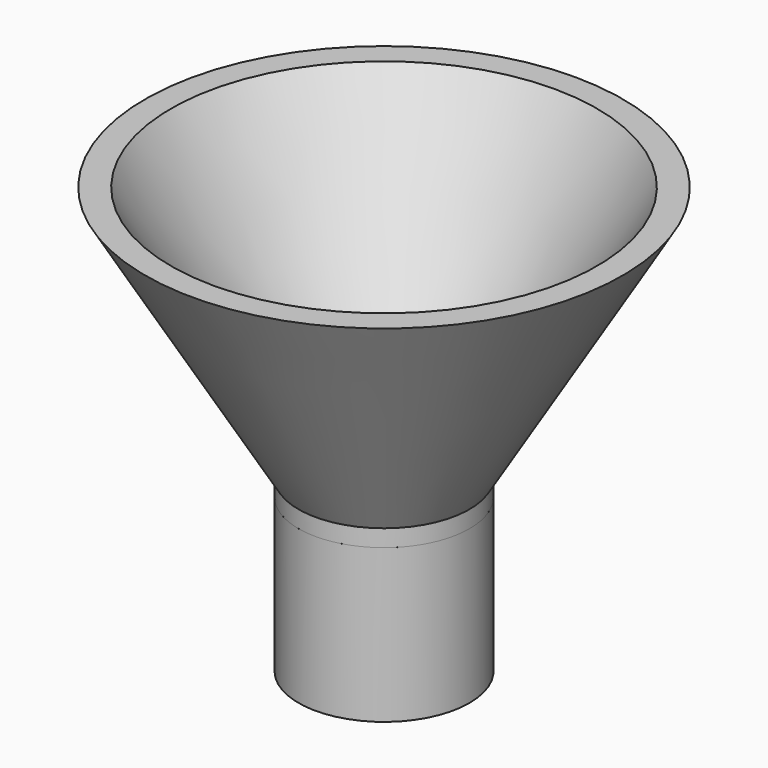
from build123d import *

# Parameters (mm, degrees)
F0_R     = 5.014911
F2_DEPTH = 9


with BuildPart() as f2:
    # F0 (on Top) → F2 (new body)
    with BuildSketch(Plane.XY):
        Circle(F0_R)
        with BuildLine():
            ThreePointArc((1.346841, -0.394517), (1.211804, -0.713484), (1.00259, -0.989536))
            Line((1.00259, -0.989536), (-1.00259, -0.989536))
            ThreePointArc((-1.00259, -0.989536), (-1.312994, 0.473457), (-0.125045, 1.382014))
            ThreePointArc((-0.125045, 1.382014), (-0.00819, 1.387586), (0.108723, 1.383382))
            ThreePointArc((0.108723, 1.383382), (0.953489, 1.012724), (1.384257, 0.19697))
            ThreePointArc((1.384257, 0.19697), (1.397207, -0.100776), (1.346841, -0.394517))
        make_face(mode=Mode.SUBTRACT)
    extrude(amount=-F2_DEPTH)

    # F1 (on Right) → F3 (revolve)
    with BuildSketch(Plane.YZ):
        Polygon((5.014386, 0), (5.014386, 1), (14.009621, 16), (12.5, 16), (3.391137, 1.113643), (3.400954, 0), align=None)
    revolve(axis=Axis((0, 0, 0), (0, 0, 1)))


solid = f2.part
